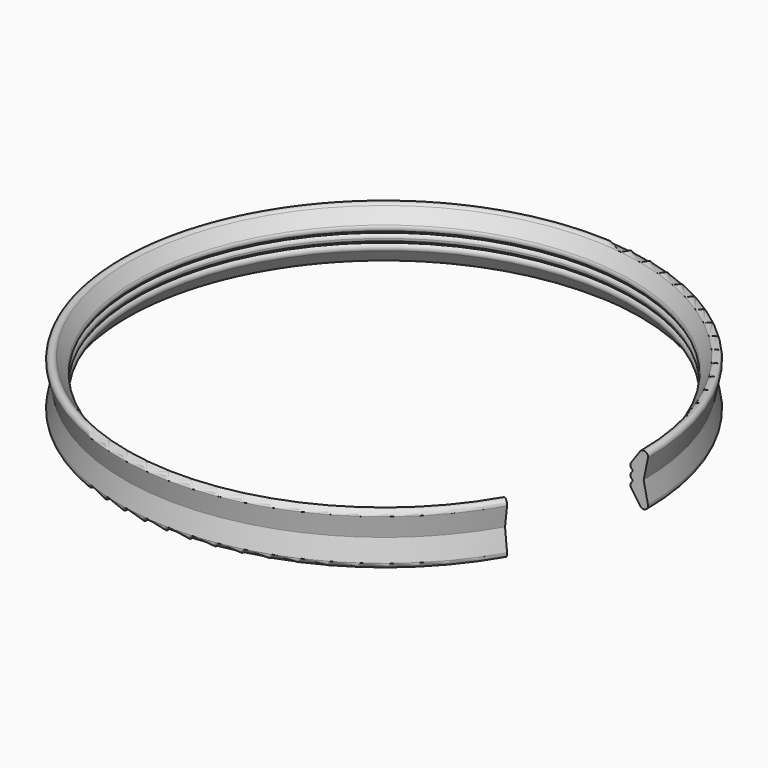
from build123d import *

# Parameters (mm, degrees)
F1_ANGLE = 330


with BuildPart() as f1:
    # F0 (on Front) → F1 (revolve)
    with BuildSketch(Plane.XZ):
        with BuildLine():
            ThreePointArc((14.326994, 0.761413), (14.234024, 0.668442), (14.199994, 0.541442))
            Line((14.199994, 0.541442), (14.961994, 0.541442))
            Line((14.961994, 0.541442), (15.210578, 1.725826))
            ThreePointArc((15.210578, 1.725826), (15.062748, 2.011162), (14.753642, 1.923277))
            Line((14.753642, 1.923277), (14.245642, 1.19472))
            ThreePointArc((14.245642, 1.19472), (14.20607, 0.994222), (14.326994, 0.829472))
            Line((14.326994, 0.829472), (14.326994, 0.761413))
        make_face()
        with BuildLine():
            Line((14.961994, 0.541442), (14.199994, 0.541442))
            ThreePointArc((14.199994, 0.541442), (14.234024, 0.414442), (14.326994, 0.321472))
            Line((14.326994, 0.321472), (14.326994, 0.253413))
            ThreePointArc((14.326994, 0.253413), (14.20607, 0.088663), (14.245642, -0.111835))
            Line((14.245642, -0.111835), (14.753642, -0.840392))
            ThreePointArc((14.753642, -0.840392), (15.062748, -0.928278), (15.210578, -0.642941))
            Line((15.210578, -0.642941), (14.961994, 0.541442))
        make_face()
    revolve(axis=Axis((0, 0, 1.969752), (0, 0, 1)), revolution_arc=F1_ANGLE)


solid = f1.part
